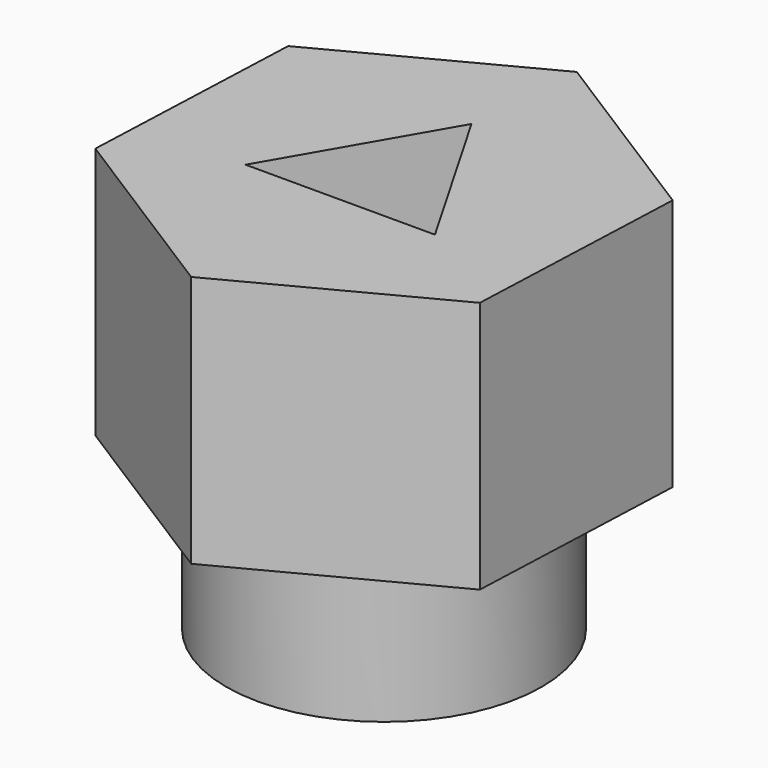
from build123d import *

# Parameters (mm, degrees)
F0_R     = 7.5
F1_DEPTH = 7
F2_R     = 7.5
F3_DEPTH = 12


with BuildPart() as f1:
    # F0 (on Top) → F1 (new body)
    with BuildSketch(Plane.XY):
        Circle(F0_R)
        Polygon((-4.5, -2.598076), (0, 5.196152), (4.5, -2.598076), align=None, mode=Mode.SUBTRACT)
    extrude(amount=F1_DEPTH)

    # F2 (on face) → F3 (join)
    with BuildSketch(Plane.XY.offset(7)):
        Polygon((9.222034, -5.833016), (9.662558, 5.070008), (0.440523, 10.903024), (-9.222034, 5.833016), (-9.662558, -5.070008), (-0.440523, -10.903024), align=None)
        Circle(F2_R, mode=Mode.SUBTRACT)
        Circle(F2_R)
        Polygon((4.5, -2.598076), (-4.5, -2.598076), (0, 5.196152), align=None, mode=Mode.SUBTRACT)
    extrude(amount=F3_DEPTH)


solid = f1.part
